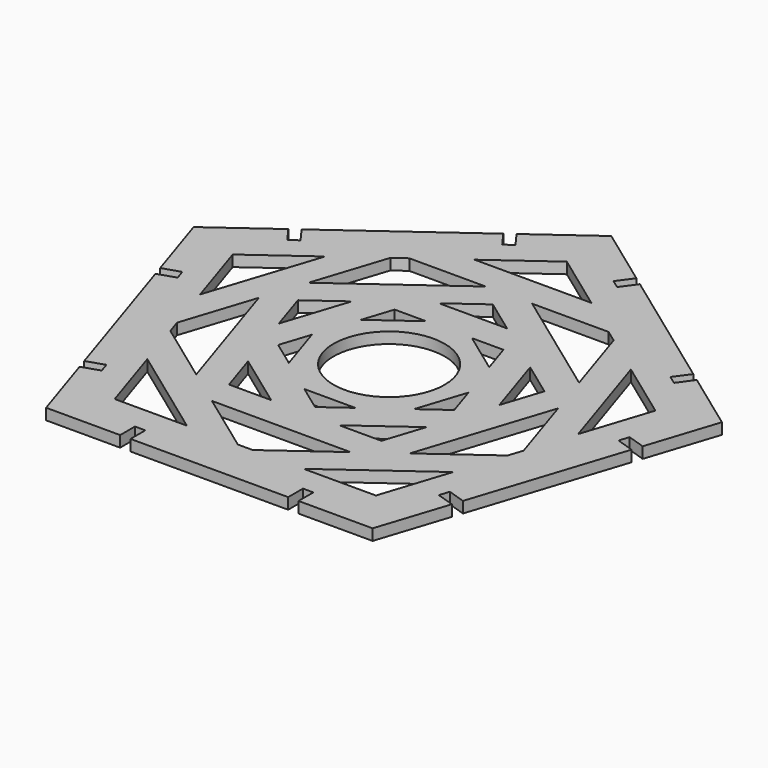
from build123d import *

# Parameters (mm, degrees)
F1_DEPTH = 3
F3_DEPTH = 3
F5_DEPTH = 3
F7_DEPTH = 3
F8_R     = 15
F9_DEPTH = 3


with BuildPart() as f1:
    # F0 (on Top) → F1 (new body)
    with BuildSketch(Plane.XY):
        Polygon((16.18034, 63.244295), (0, 75), (-16.18034, 63.244295), (-13.241414, 59.19921), (-15.506661, 57.553411), (-18.445587, 61.598496), (-52.883651, 36.577778), (-49.944725, 32.532693), (-52.209973, 30.886895), (-55.148899, 34.93198), (-71.329239, 23.176275), (-65.148899, 4.155144), (-60.393616, 5.700229), (-59.528369, 3.037271), (-64.283651, 1.492186), (-51.129481, -38.992186), (-46.374199, -37.447101), (-45.508951, -40.110059), (-50.264234, -41.655144), (-44.083894, -60.676275), (-24.083894, -60.676275), (-24.083894, -55.676275), (-21.283894, -55.676275), (-21.283894, -60.676275), (21.283894, -60.676275), (21.283894, -55.676275), (24.083894, -55.676275), (24.083894, -60.676275), (44.083894, -60.676275), (50.264234, -41.655144), (45.508951, -40.110059), (46.374199, -37.447101), (51.129481, -38.992186), (64.283651, 1.492186), (59.528369, 3.037271), (60.393616, 5.700229), (65.148899, 4.155144), (71.329239, 23.176275), (55.148899, 34.93198), (52.209973, 30.886895), (49.944725, 32.532693), (52.883651, 36.577778), (18.445587, 61.598496), (15.506661, 57.553411), (13.241414, 59.19921), align=None)
        Polygon((-57.063391, 18.54102), (0, 60), (57.063391, 18.54102), (35.267115, -48.54102), (-35.267115, -48.54102), align=None, mode=Mode.SUBTRACT)
    extrude(amount=F1_DEPTH)

    # F2 (on face) → F3 (join)
    with BuildSketch(Plane.XY.offset(3)):
        Polygon((-57.063391, -18.54102), (0, -60), (57.063391, -18.54102), (35.267115, 48.54102), (-35.267115, 48.54102), align=None)
        Polygon((47.552826, -15.45085), (0, -50), (-47.552826, -15.45085), (-29.389263, 40.45085), (29.389263, 40.45085), align=None, mode=Mode.SUBTRACT)
    extrude(amount=-F3_DEPTH)

    # F4 (on face) → F5 (join)
    with BuildSketch(Plane.XY.offset(3)):
        Polygon((42.797543, 13.905765), (0, 45), (-42.797543, 13.905765), (-26.450336, -36.405765), (26.450336, -36.405765), align=None)
        Polygon((-33.286978, 10.815595), (0, 35), (33.286978, 10.815595), (20.572484, -28.315595), (-20.572484, -28.315595), align=None, mode=Mode.SUBTRACT)
    extrude(amount=-F5_DEPTH)

    # F6 (on face) → F7 (join)
    with BuildSketch(Plane.XY.offset(3)):
        Polygon((-33.286978, -10.815595), (0, -35), (33.286978, -10.815595), (20.572484, 28.315595), (-20.572484, 28.315595), align=None)
        Polygon((23.776413, -7.725425), (0, -25), (-23.776413, -7.725425), (-14.694631, 20.225425), (14.694631, 20.225425), align=None, mode=Mode.SUBTRACT)
    extrude(amount=-F7_DEPTH)

    # F8 (on face) → F9 (join)
    with BuildSketch(Plane.XY.offset(3)):
        Polygon((-14.530851, -20), (14.530851, -20), (23.51141, 7.63932), (0, 24.72136), (-23.51141, 7.63932), align=None)
        Circle(F8_R, mode=Mode.SUBTRACT)
    extrude(amount=-F9_DEPTH)


solid = f1.part
